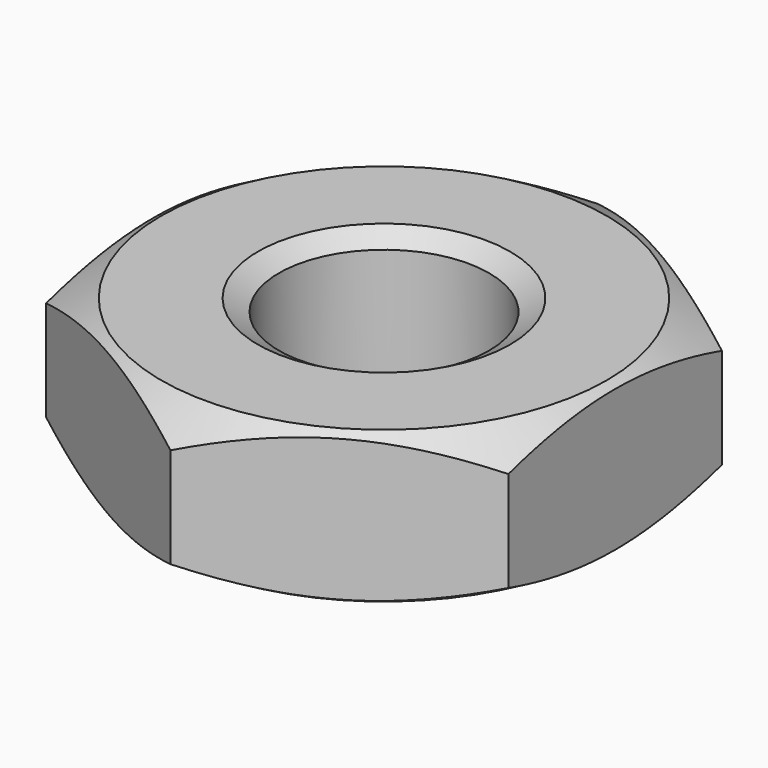
from build123d import *

# Parameters (mm, degrees)
SKETCH001_R  = 3.5
POCKET_DEPTH = 1.8


with BuildPart() as part:
    # Sketch → Revolution (revolve)
    with BuildSketch(Plane.XZ):
        Polygon((1.5, 0), (1.25, 0.144338), (1.25, 1.655662), (1.5, 1.8), (2.65, 1.8), (3.5, 1.309252), (3.5, 0.490748), (2.65, 0), align=None)
    revolve(axis=Axis((0, 0, 0), (0, 0, 1)))

    # Sketch001 → Pocket (cut)
    with BuildSketch(Plane(origin=(0, 0, 1.8), x_dir=(-1, 0, 0), z_dir=(0, 0, 1))):
        Circle(SKETCH001_R)
        Polygon((-2.75, 1.587713), (-2.75, -1.587713), (0, -3.175426), (2.75, -1.587713), (2.75, 1.587713), (0, 3.175426), align=None, mode=Mode.SUBTRACT)
    extrude(amount=-POCKET_DEPTH, mode=Mode.SUBTRACT)


solid = part.part
